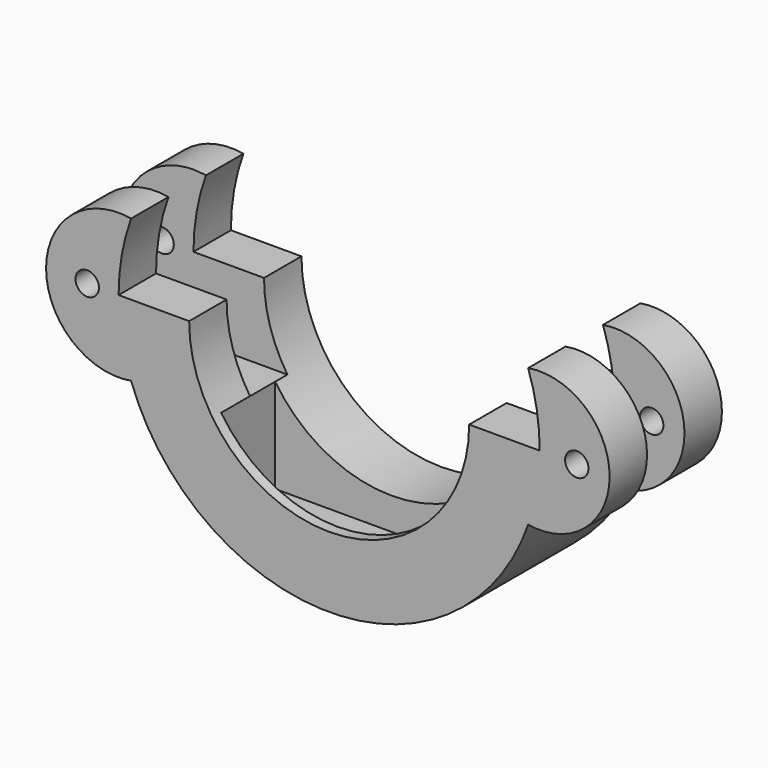
from build123d import *

# Parameters (mm, degrees)
F0_R          = 1.5875
F1_DEPTH      = 19.05
F2_W          = 6.35
F2_H          = 21.8940776977
F3_DEPTH      = 69.31141
F3_DEPTH_BACK = 25.4
F5_W          = 31.5987952054
F5_H          = 9.1577427173
F6_DEPTH      = 33.02


with BuildPart() as f1:
    # F0 (on Front) → F1 (new body)
    with BuildSketch(Plane.XZ):
        with BuildLine():
            ThreePointArc((3.2306237647, 27.0146857947), (-15.7693382353, 8.0147237947), (-34.7693002353, 27.0146857947))
            Line((-34.7693002353, 27.0146857947), (-44.3443382353, 27.0146857947))
            ThreePointArc((-44.3443382353, 27.0146857947), (-43.9176321109, 31.9344598635), (-42.6502576132, 36.7073014581))
            ThreePointArc((-42.6502576132, 36.7073014581), (-54.1838863729, 27.0146857947), (-42.6502576132, 17.3220701313))
            ThreePointArc((-42.6502576132, 17.3220701313), (-15.5884947503, -1.5597419447), (11.2321092838, 17.6630839601))
            ThreePointArc((11.2321092838, 17.6630839601), (22.288726896, 27.0146857947), (11.2321092838, 36.3662876293))
            ThreePointArc((11.2321092838, 36.3662876293), (12.4095278514, 31.7562183603), (12.8056617647, 27.0146857947))
            Line((12.8056617647, 27.0146857947), (3.2306237647, 27.0146857947))
        make_face()
        with Locations((-48.6005805433, 27.0146857947)):
            Circle(F0_R, mode=Mode.SUBTRACT)
        with Locations((17.8374499083, 27.0146857947)):
            Circle(F0_R, mode=Mode.SUBTRACT)
    extrude(amount=F1_DEPTH)

    # F2 (on Right) → F3 (cut, two sides)
    with BuildSketch(Plane.YZ) as f3_sk:
        with Locations((-9.525, 27.4422825678)):
            Rectangle(F2_W, F2_H)
    extrude(amount=-F3_DEPTH, mode=Mode.SUBTRACT)
    extrude(f3_sk.sketch, amount=F3_DEPTH_BACK, mode=Mode.SUBTRACT)

    # F5 (on plane+point) → F6 (cut)
    with BuildSketch(Plane.XY.offset(36.7073014581)):
        with Locations((-15.7993976027, -13.0069836187)):
            Rectangle(F5_W, F5_H)
    extrude(amount=-F6_DEPTH, mode=Mode.SUBTRACT)


solid = f1.part
